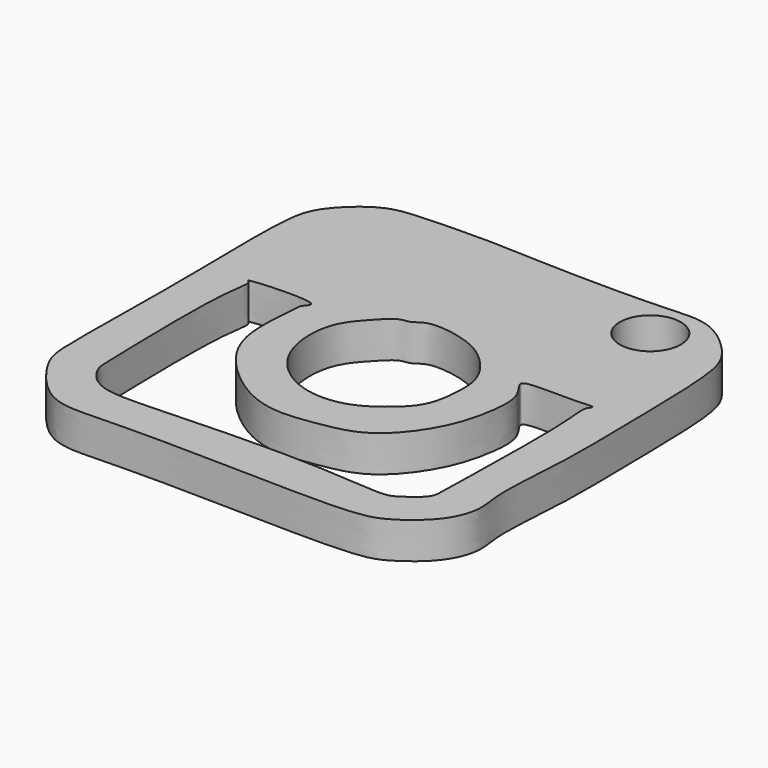
from build123d import *

# Parameters (mm, degrees)
F1_DEPTH = 5
F2_R     = 4.1957402055
F3_DEPTH = 5


with BuildPart() as f1:
    # F0 (on Top) → F1 (new body)
    with BuildSketch(Plane.XY):
        with BuildLine():
            add(Edge.make_bspline(
                [(-41.9891513884, 61.0162578523), (-45.0875907511, 61.0591948034), (-51.6166800483, 60.9227890538), (-56.4764227085, 60.3659597972), (-61.5172684029, 55.6744307545), (-62.5314929926, 51.473941242), (-62.5178528619, 41.7220387292), (-62.2727928866, 31.186087383), (-62.6701071498, 14.1055798656), (-62.1688376347, 9.6447450556), (-57.718044637, 3.9576818298), (-53.8698065032, 2.5406350813), (-49.3141423448, 2.7256698678), (-38.3422401008, 2.9166328899), (-20.9800154438, 2.3417741933), (-13.0002502084, 2.6413988836), (-10.1569819552, 3.7064735755), (-5.6192278214, 7.0333987942), (-3.8202210476, 11.667144241), (-4.9494366363, 15.7312497453), (-3.8761922032, 26.0637779537), (-4.1906252817, 38.3971176223), (-4.3134623912, 51.9561767207), (-5.9634216252, 56.3124754319), (-11.5644676321, 61.3639785058), (-18.3440176038, 60.4740791891), (-33.6964370621, 60.6265044862), (-39.0542090925, 60.9755865792), (-41.9891513884, 61.0162578523)],
                knots=[0, 0, 0, 0, 0.0429361156, 0.0738267634, 0.1082299477, 0.1368179428, 0.1786333102, 0.2261856486, 0.2825173475, 0.3123607454, 0.3479992102, 0.3753590592, 0.4036128612, 0.449745512, 0.5088783159, 0.5469058247, 0.5702957776, 0.6025266615, 0.6322882182, 0.6598958872, 0.7035037003, 0.7543383914, 0.8044457801, 0.8340867712, 0.8693483995, 0.9055876779, 0.9593295182, 1, 1, 1, 1], degree=3))
        make_face()
        with BuildLine():
            add(Edge.make_bspline(
                [(-48.1288656592, 37.7447642386), (-49.0179938095, 38.4967180231), (-57.6986033983, 37.9417066646), (-56.0492846949, 37.4812093022), (-57.3878696396, 33.2524131809), (-56.7224314764, 13.7009162316), (-56.7103106019, 11.9414125292), (-55.6451880606, 9.9230821612), (-53.2992582968, 8.3029974234), (-48.9204074853, 7.9806110007), (-36.7571749604, 8.6786010286), (-22.7776818189, 8.7111648316), (-14.4481958763, 7.7461165637), (-12.7446111061, 8.4939722767), (-9.7794488313, 10.6809562199), (-9.8833179098, 13.3673479929), (-9.2552574775, 33.2392408922), (-10.1994103117, 37.0151313271), (-9.0532935014, 38.1477776436), (-12.2689984098, 37.6174289043), (-19.0000843988, 38.0827826196), (-18.9033705965, 36.7797309591), (-16.8754483662, 34.6434043114), (-17.4778065946, 28.9458434246), (-19.2184057224, 23.5918547783), (-23.9957518583, 17.4622575725), (-30.4911069276, 16.2955625187), (-38.5740520491, 15.1604175278), (-48.1544680644, 23.205004396), (-49.3366839674, 30.0973435805), (-48.6515701546, 35.801940861), (-48.7546814683, 36.6795438898), (-47.8160280223, 37.4801910778), (-48.1288656592, 37.7447642386)],
                knots=[0, 0, 0, 0, 0.0430465364, 0.0508081292, 0.080014638, 0.1454445843, 0.1656167154, 0.1861125794, 0.2099270103, 0.2395871511, 0.2907843072, 0.347870216, 0.3883946101, 0.4079897969, 0.4337851236, 0.4583981851, 0.5239910938, 0.5528169576, 0.5647700869, 0.5883024349, 0.6260973549, 0.6374796223, 0.6612011371, 0.6954302569, 0.7310185089, 0.7704497079, 0.8073387013, 0.848364932, 0.8979111859, 0.9372159873, 0.9708411007, 0.984854178, 1, 1, 1, 1], degree=3))
        make_face(mode=Mode.SUBTRACT)
        with BuildLine():
            add(Edge.make_bspline(
                [(-37.1368005872, 41.1117039621), (-37.5305168917, 40.9572297674), (-38.6099610115, 41.0903192121), (-40.9493855311, 38.5922018741), (-43.7498125743, 35.4814520251), (-43.9344978853, 28.9974222132), (-40.8891498035, 23.9290441693), (-35.7922943583, 21.2008229641), (-30.2763481014, 21.552501768), (-26.3958885666, 24.2561169839), (-23.5872897775, 27.0394965135), (-22.9650562306, 31.3419576838), (-22.9994962765, 35.4998800833), (-26.0672103552, 39.418189909), (-29.6722850778, 41.6658074316), (-35.5071252033, 42.6008468575), (-36.6640528218, 41.2971860706), (-37.1368005872, 41.1117039621)],
                knots=[0, 0, 0, 0, 0.0375558493, 0.095619384, 0.1626003998, 0.2429261255, 0.3210965308, 0.397674691, 0.4725879054, 0.5428122788, 0.6064341852, 0.6730495709, 0.7390419387, 0.8092421034, 0.8784270394, 0.9549054899, 1, 1, 1, 1], degree=3))
        make_face(mode=Mode.SUBTRACT)
    extrude(amount=F1_DEPTH)

    # F2 (on face) → F3 (cut)
    with BuildSketch(Plane.XY.offset(5)):
        with Locations((-15.3636103496, 55.1066026092)):
            Circle(F2_R)
    extrude(amount=-F3_DEPTH, mode=Mode.SUBTRACT)


solid = f1.part
